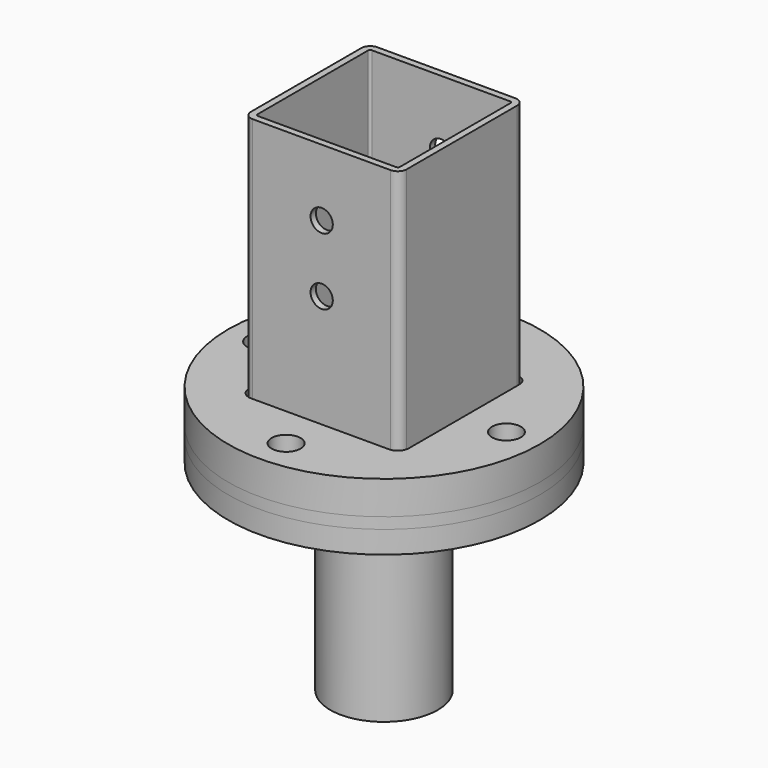
from build123d import *

# Parameters (mm, degrees)
F1_DEPTH       = 120
F3_D           = 10
F5_R           = 24.15
F5_R_2         = 20.9
F6_DEPTH       = 100
F6_DEPTH_BACK  = 15
F7_R           = 70
F7_R_2         = 6.5
F8_DEPTH       = 10
F8_DEPTH_BACK  = 5
F9_R           = 70
F9_R_2         = 6.5
F9_R_3         = 25
F10_DEPTH      = 10
F10_DEPTH_BACK = 5


with BuildPart() as f1:
    # F0 (on Top) → F1 (new body)
    with BuildSketch(Plane.XY):
        with BuildLine():
            Line((-31, -35), (31, -35))
            ThreePointArc((31, -35), (33.8284271247, -33.8284271247), (35, -31))
            Line((35, -31), (35, 31))
            ThreePointArc((35, 31), (33.8284271247, 33.8284271247), (31, 35))
            Line((31, 35), (-31, 35))
            ThreePointArc((-31, 35), (-33.8284271247, 33.8284271247), (-35, 31))
            Line((-35, 31), (-35, -31))
            ThreePointArc((-35, -31), (-33.8284271247, -33.8284271247), (-31, -35))
        make_face()
        with BuildLine():
            ThreePointArc((31, 32), (31.7071067812, 31.7071067812), (32, 31))
            Line((32, 31), (32, -31))
            ThreePointArc((32, -31), (31.7071067812, -31.7071067812), (31, -32))
            Line((31, -32), (-31, -32))
            ThreePointArc((-31, -32), (-31.7071067812, -31.7071067812), (-32, -31))
            Line((-32, -31), (-32, 31))
            ThreePointArc((-32, 31), (-31.7071067812, 31.7071067812), (-31, 32))
            Line((-31, 32), (31, 32))
        make_face(mode=Mode.SUBTRACT)
    extrude(amount=F1_DEPTH)

    # F3 (through all)
    with Locations(Plane.XZ.offset(35)):
        with Locations((0, 90), (0, 60)):
            Hole(F3_D / 2)


with BuildPart() as f6:
    # F5 (on offset) → F6 (new body, two sides)
    with BuildSketch(Plane.XY.offset(-10)) as f6_sk:
        Circle(F5_R)
        Circle(F5_R_2, mode=Mode.SUBTRACT)
    extrude(amount=-F6_DEPTH)
    extrude(f6_sk.sketch, amount=F6_DEPTH_BACK)


with BuildPart() as f8:
    # F7 (on Top) → F8 (new body, two sides)
    with BuildSketch(Plane.XY) as f8_sk:
        Circle(F7_R)
        with Locations((0, -55)):
            Circle(F7_R_2, mode=Mode.SUBTRACT)
        with Locations((-55, 0)):
            Circle(F7_R_2, mode=Mode.SUBTRACT)
        with BuildLine():
            ThreePointArc((31, 36), (34.5355339059, 34.5355339059), (36, 31))
            Line((36, 31), (36, -31))
            ThreePointArc((36, -31), (34.5355339059, -34.5355339059), (31, -36))
            Line((31, -36), (-31, -36))
            ThreePointArc((-31, -36), (-34.5355339059, -34.5355339059), (-36, -31))
            Line((-36, -31), (-36, 31))
            ThreePointArc((-36, 31), (-34.5355339059, 34.5355339059), (-31, 36))
            Line((-31, 36), (31, 36))
        make_face(mode=Mode.SUBTRACT)
        with Locations((55, 0)):
            Circle(F7_R_2, mode=Mode.SUBTRACT)
        with Locations((0, 55)):
            Circle(F7_R_2, mode=Mode.SUBTRACT)
    extrude(amount=F8_DEPTH)
    extrude(f8_sk.sketch, amount=-F8_DEPTH_BACK)


with BuildPart() as f10:
    # F9 (on offset) → F10 (new body, two sides)
    with BuildSketch(Plane.XY.offset(-10)) as f10_sk:
        Circle(F9_R)
        with Locations((0, -55)):
            Circle(F9_R_2, mode=Mode.SUBTRACT)
        with Locations((-55, 0)):
            Circle(F9_R_2, mode=Mode.SUBTRACT)
        Circle(F9_R_3, mode=Mode.SUBTRACT)
        with Locations((55, 0)):
            Circle(F9_R_2, mode=Mode.SUBTRACT)
        with Locations((0, 55)):
            Circle(F9_R_2, mode=Mode.SUBTRACT)
    extrude(amount=-F10_DEPTH)
    extrude(f10_sk.sketch, amount=F10_DEPTH_BACK)


solid = Compound([f1.part, f6.part, f8.part, f10.part])
